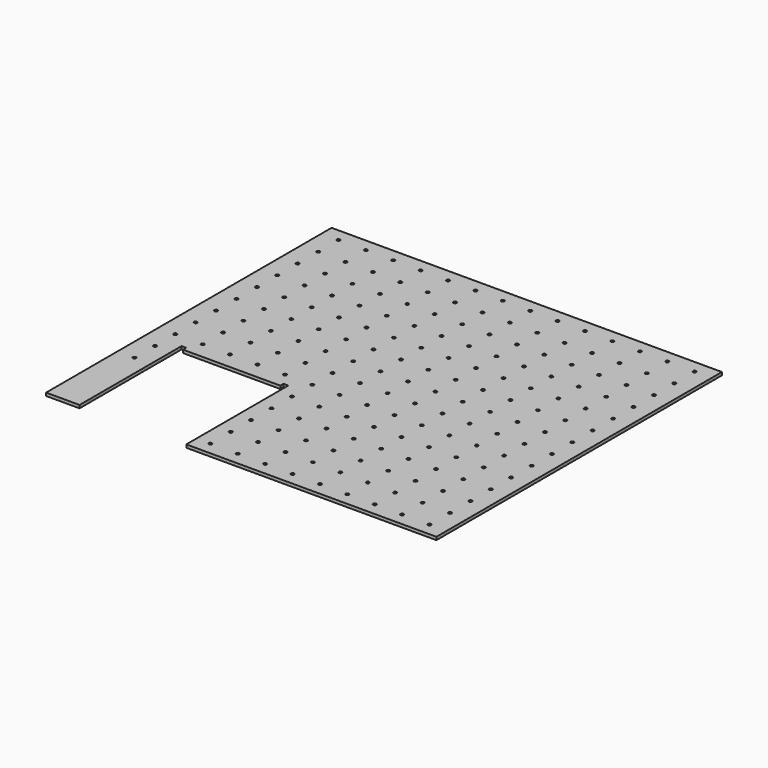
from build123d import *

# Parameters (mm, degrees)
SKETCH_R      = 3.175
EXTRUDE_DEPTH = 5.9944


with BuildPart() as part:
    # Sketch → Extrude (new body)
    with BuildSketch(Plane.XY):
        Polygon((0, 0), (777.875, 0), (777.875, -711.2), (279.4, -711.2), (279.4, -457.2), (269.875, -457.2), (269.875, -465.1248), (76.2, -465.1248), (76.2, -457.2), (66.675, -457.2), (66.675, -711.2), (0, -711.2), align=None)
        with Locations((33.9852, -25.4)):
            Circle(SKETCH_R, mode=Mode.SUBTRACT)
        with Locations((88.5952, -25.4)):
            Circle(SKETCH_R, mode=Mode.SUBTRACT)
        with Locations((143.2052, -25.4)):
            Circle(SKETCH_R, mode=Mode.SUBTRACT)
        with Locations((197.8152, -25.4)):
            Circle(SKETCH_R, mode=Mode.SUBTRACT)
        with Locations((252.4252, -25.4)):
            Circle(SKETCH_R, mode=Mode.SUBTRACT)
        with Locations((307.0352, -25.4)):
            Circle(SKETCH_R, mode=Mode.SUBTRACT)
        with Locations((361.6452, -25.4)):
            Circle(SKETCH_R, mode=Mode.SUBTRACT)
        with Locations((416.2552, -25.4)):
            Circle(SKETCH_R, mode=Mode.SUBTRACT)
        with Locations((470.8652, -25.4)):
            Circle(SKETCH_R, mode=Mode.SUBTRACT)
        with Locations((525.4752, -25.4)):
            Circle(SKETCH_R, mode=Mode.SUBTRACT)
        with Locations((580.0852, -25.4)):
            Circle(SKETCH_R, mode=Mode.SUBTRACT)
        with Locations((634.6952, -25.4)):
            Circle(SKETCH_R, mode=Mode.SUBTRACT)
        with Locations((689.3052, -25.4)):
            Circle(SKETCH_R, mode=Mode.SUBTRACT)
        with Locations((743.9152, -25.4)):
            Circle(SKETCH_R, mode=Mode.SUBTRACT)
        with Locations((33.9852, -76.2)):
            Circle(SKETCH_R, mode=Mode.SUBTRACT)
        with Locations((88.5952, -76.2)):
            Circle(SKETCH_R, mode=Mode.SUBTRACT)
        with Locations((143.2052, -76.2)):
            Circle(SKETCH_R, mode=Mode.SUBTRACT)
        with Locations((197.8152, -76.2)):
            Circle(SKETCH_R, mode=Mode.SUBTRACT)
        with Locations((252.4252, -76.2)):
            Circle(SKETCH_R, mode=Mode.SUBTRACT)
        with Locations((307.0352, -76.2)):
            Circle(SKETCH_R, mode=Mode.SUBTRACT)
        with Locations((361.6452, -76.2)):
            Circle(SKETCH_R, mode=Mode.SUBTRACT)
        with Locations((416.2552, -76.2)):
            Circle(SKETCH_R, mode=Mode.SUBTRACT)
        with Locations((470.8652, -76.2)):
            Circle(SKETCH_R, mode=Mode.SUBTRACT)
        with Locations((525.4752, -76.2)):
            Circle(SKETCH_R, mode=Mode.SUBTRACT)
        with Locations((580.0852, -76.2)):
            Circle(SKETCH_R, mode=Mode.SUBTRACT)
        with Locations((634.6952, -76.2)):
            Circle(SKETCH_R, mode=Mode.SUBTRACT)
        with Locations((689.3052, -76.2)):
            Circle(SKETCH_R, mode=Mode.SUBTRACT)
        with Locations((743.9152, -76.2)):
            Circle(SKETCH_R, mode=Mode.SUBTRACT)
        with Locations((33.9852, -127)):
            Circle(SKETCH_R, mode=Mode.SUBTRACT)
        with Locations((88.5952, -127)):
            Circle(SKETCH_R, mode=Mode.SUBTRACT)
        with Locations((143.2052, -127)):
            Circle(SKETCH_R, mode=Mode.SUBTRACT)
        with Locations((197.8152, -127)):
            Circle(SKETCH_R, mode=Mode.SUBTRACT)
        with Locations((252.4252, -127)):
            Circle(SKETCH_R, mode=Mode.SUBTRACT)
        with Locations((307.0352, -127)):
            Circle(SKETCH_R, mode=Mode.SUBTRACT)
        with Locations((361.6452, -127)):
            Circle(SKETCH_R, mode=Mode.SUBTRACT)
        with Locations((416.2552, -127)):
            Circle(SKETCH_R, mode=Mode.SUBTRACT)
        with Locations((470.8652, -127)):
            Circle(SKETCH_R, mode=Mode.SUBTRACT)
        with Locations((525.4752, -127)):
            Circle(SKETCH_R, mode=Mode.SUBTRACT)
        with Locations((580.0852, -127)):
            Circle(SKETCH_R, mode=Mode.SUBTRACT)
        with Locations((634.6952, -127)):
            Circle(SKETCH_R, mode=Mode.SUBTRACT)
        with Locations((689.3052, -127)):
            Circle(SKETCH_R, mode=Mode.SUBTRACT)
        with Locations((743.9152, -127)):
            Circle(SKETCH_R, mode=Mode.SUBTRACT)
        with Locations((33.9852, -177.8)):
            Circle(SKETCH_R, mode=Mode.SUBTRACT)
        with Locations((88.5952, -177.8)):
            Circle(SKETCH_R, mode=Mode.SUBTRACT)
        with Locations((143.2052, -177.8)):
            Circle(SKETCH_R, mode=Mode.SUBTRACT)
        with Locations((197.8152, -177.8)):
            Circle(SKETCH_R, mode=Mode.SUBTRACT)
        with Locations((252.4252, -177.8)):
            Circle(SKETCH_R, mode=Mode.SUBTRACT)
        with Locations((307.0352, -177.8)):
            Circle(SKETCH_R, mode=Mode.SUBTRACT)
        with Locations((361.6452, -177.8)):
            Circle(SKETCH_R, mode=Mode.SUBTRACT)
        with Locations((416.2552, -177.8)):
            Circle(SKETCH_R, mode=Mode.SUBTRACT)
        with Locations((470.8652, -177.8)):
            Circle(SKETCH_R, mode=Mode.SUBTRACT)
        with Locations((525.4752, -177.8)):
            Circle(SKETCH_R, mode=Mode.SUBTRACT)
        with Locations((580.0852, -177.8)):
            Circle(SKETCH_R, mode=Mode.SUBTRACT)
        with Locations((634.6952, -177.8)):
            Circle(SKETCH_R, mode=Mode.SUBTRACT)
        with Locations((689.3052, -177.8)):
            Circle(SKETCH_R, mode=Mode.SUBTRACT)
        with Locations((743.9152, -177.8)):
            Circle(SKETCH_R, mode=Mode.SUBTRACT)
        with Locations((33.9852, -228.6)):
            Circle(SKETCH_R, mode=Mode.SUBTRACT)
        with Locations((88.5952, -228.6)):
            Circle(SKETCH_R, mode=Mode.SUBTRACT)
        with Locations((143.2052, -228.6)):
            Circle(SKETCH_R, mode=Mode.SUBTRACT)
        with Locations((197.8152, -228.6)):
            Circle(SKETCH_R, mode=Mode.SUBTRACT)
        with Locations((252.4252, -228.6)):
            Circle(SKETCH_R, mode=Mode.SUBTRACT)
        with Locations((307.0352, -228.6)):
            Circle(SKETCH_R, mode=Mode.SUBTRACT)
        with Locations((361.6452, -228.6)):
            Circle(SKETCH_R, mode=Mode.SUBTRACT)
        with Locations((416.2552, -228.6)):
            Circle(SKETCH_R, mode=Mode.SUBTRACT)
        with Locations((470.8652, -228.6)):
            Circle(SKETCH_R, mode=Mode.SUBTRACT)
        with Locations((525.4752, -228.6)):
            Circle(SKETCH_R, mode=Mode.SUBTRACT)
        with Locations((580.0852, -228.6)):
            Circle(SKETCH_R, mode=Mode.SUBTRACT)
        with Locations((634.6952, -228.6)):
            Circle(SKETCH_R, mode=Mode.SUBTRACT)
        with Locations((689.3052, -228.6)):
            Circle(SKETCH_R, mode=Mode.SUBTRACT)
        with Locations((743.9152, -228.6)):
            Circle(SKETCH_R, mode=Mode.SUBTRACT)
        with Locations((33.9852, -279.4)):
            Circle(SKETCH_R, mode=Mode.SUBTRACT)
        with Locations((88.5952, -279.4)):
            Circle(SKETCH_R, mode=Mode.SUBTRACT)
        with Locations((143.2052, -279.4)):
            Circle(SKETCH_R, mode=Mode.SUBTRACT)
        with Locations((197.8152, -279.4)):
            Circle(SKETCH_R, mode=Mode.SUBTRACT)
        with Locations((252.4252, -279.4)):
            Circle(SKETCH_R, mode=Mode.SUBTRACT)
        with Locations((307.0352, -279.4)):
            Circle(SKETCH_R, mode=Mode.SUBTRACT)
        with Locations((361.6452, -279.4)):
            Circle(SKETCH_R, mode=Mode.SUBTRACT)
        with Locations((416.2552, -279.4)):
            Circle(SKETCH_R, mode=Mode.SUBTRACT)
        with Locations((470.8652, -279.4)):
            Circle(SKETCH_R, mode=Mode.SUBTRACT)
        with Locations((525.4752, -279.4)):
            Circle(SKETCH_R, mode=Mode.SUBTRACT)
        with Locations((580.0852, -279.4)):
            Circle(SKETCH_R, mode=Mode.SUBTRACT)
        with Locations((634.6952, -279.4)):
            Circle(SKETCH_R, mode=Mode.SUBTRACT)
        with Locations((689.3052, -279.4)):
            Circle(SKETCH_R, mode=Mode.SUBTRACT)
        with Locations((743.9152, -279.4)):
            Circle(SKETCH_R, mode=Mode.SUBTRACT)
        with Locations((33.9852, -330.2)):
            Circle(SKETCH_R, mode=Mode.SUBTRACT)
        with Locations((88.5952, -330.2)):
            Circle(SKETCH_R, mode=Mode.SUBTRACT)
        with Locations((143.2052, -330.2)):
            Circle(SKETCH_R, mode=Mode.SUBTRACT)
        with Locations((197.8152, -330.2)):
            Circle(SKETCH_R, mode=Mode.SUBTRACT)
        with Locations((252.4252, -330.2)):
            Circle(SKETCH_R, mode=Mode.SUBTRACT)
        with Locations((307.0352, -330.2)):
            Circle(SKETCH_R, mode=Mode.SUBTRACT)
        with Locations((361.6452, -330.2)):
            Circle(SKETCH_R, mode=Mode.SUBTRACT)
        with Locations((416.2552, -330.2)):
            Circle(SKETCH_R, mode=Mode.SUBTRACT)
        with Locations((470.8652, -330.2)):
            Circle(SKETCH_R, mode=Mode.SUBTRACT)
        with Locations((525.4752, -330.2)):
            Circle(SKETCH_R, mode=Mode.SUBTRACT)
        with Locations((580.0852, -330.2)):
            Circle(SKETCH_R, mode=Mode.SUBTRACT)
        with Locations((634.6952, -330.2)):
            Circle(SKETCH_R, mode=Mode.SUBTRACT)
        with Locations((689.3052, -330.2)):
            Circle(SKETCH_R, mode=Mode.SUBTRACT)
        with Locations((743.9152, -330.2)):
            Circle(SKETCH_R, mode=Mode.SUBTRACT)
        with Locations((33.9852, -381)):
            Circle(SKETCH_R, mode=Mode.SUBTRACT)
        with Locations((88.5952, -381)):
            Circle(SKETCH_R, mode=Mode.SUBTRACT)
        with Locations((143.2052, -381)):
            Circle(SKETCH_R, mode=Mode.SUBTRACT)
        with Locations((197.8152, -381)):
            Circle(SKETCH_R, mode=Mode.SUBTRACT)
        with Locations((252.4252, -381)):
            Circle(SKETCH_R, mode=Mode.SUBTRACT)
        with Locations((307.0352, -381)):
            Circle(SKETCH_R, mode=Mode.SUBTRACT)
        with Locations((361.6452, -381)):
            Circle(SKETCH_R, mode=Mode.SUBTRACT)
        with Locations((416.2552, -381)):
            Circle(SKETCH_R, mode=Mode.SUBTRACT)
        with Locations((470.8652, -381)):
            Circle(SKETCH_R, mode=Mode.SUBTRACT)
        with Locations((525.4752, -381)):
            Circle(SKETCH_R, mode=Mode.SUBTRACT)
        with Locations((580.0852, -381)):
            Circle(SKETCH_R, mode=Mode.SUBTRACT)
        with Locations((634.6952, -381)):
            Circle(SKETCH_R, mode=Mode.SUBTRACT)
        with Locations((689.3052, -381)):
            Circle(SKETCH_R, mode=Mode.SUBTRACT)
        with Locations((743.9152, -381)):
            Circle(SKETCH_R, mode=Mode.SUBTRACT)
        with Locations((33.9852, -431.8)):
            Circle(SKETCH_R, mode=Mode.SUBTRACT)
        with Locations((88.5952, -431.8)):
            Circle(SKETCH_R, mode=Mode.SUBTRACT)
        with Locations((143.2052, -431.8)):
            Circle(SKETCH_R, mode=Mode.SUBTRACT)
        with Locations((197.8152, -431.8)):
            Circle(SKETCH_R, mode=Mode.SUBTRACT)
        with Locations((252.4252, -431.8)):
            Circle(SKETCH_R, mode=Mode.SUBTRACT)
        with Locations((307.0352, -431.8)):
            Circle(SKETCH_R, mode=Mode.SUBTRACT)
        with Locations((361.6452, -431.8)):
            Circle(SKETCH_R, mode=Mode.SUBTRACT)
        with Locations((416.2552, -431.8)):
            Circle(SKETCH_R, mode=Mode.SUBTRACT)
        with Locations((470.8652, -431.8)):
            Circle(SKETCH_R, mode=Mode.SUBTRACT)
        with Locations((525.4752, -431.8)):
            Circle(SKETCH_R, mode=Mode.SUBTRACT)
        with Locations((580.0852, -431.8)):
            Circle(SKETCH_R, mode=Mode.SUBTRACT)
        with Locations((634.6952, -431.8)):
            Circle(SKETCH_R, mode=Mode.SUBTRACT)
        with Locations((689.3052, -431.8)):
            Circle(SKETCH_R, mode=Mode.SUBTRACT)
        with Locations((743.9152, -431.8)):
            Circle(SKETCH_R, mode=Mode.SUBTRACT)
        with Locations((33.9852, -482.6)):
            Circle(SKETCH_R, mode=Mode.SUBTRACT)
        with Locations((307.0352, -482.6)):
            Circle(SKETCH_R, mode=Mode.SUBTRACT)
        with Locations((361.6452, -482.6)):
            Circle(SKETCH_R, mode=Mode.SUBTRACT)
        with Locations((416.2552, -482.6)):
            Circle(SKETCH_R, mode=Mode.SUBTRACT)
        with Locations((470.8652, -482.6)):
            Circle(SKETCH_R, mode=Mode.SUBTRACT)
        with Locations((525.4752, -482.6)):
            Circle(SKETCH_R, mode=Mode.SUBTRACT)
        with Locations((580.0852, -482.6)):
            Circle(SKETCH_R, mode=Mode.SUBTRACT)
        with Locations((634.6952, -482.6)):
            Circle(SKETCH_R, mode=Mode.SUBTRACT)
        with Locations((689.3052, -482.6)):
            Circle(SKETCH_R, mode=Mode.SUBTRACT)
        with Locations((743.9152, -482.6)):
            Circle(SKETCH_R, mode=Mode.SUBTRACT)
        with Locations((33.9852, -533.4)):
            Circle(SKETCH_R, mode=Mode.SUBTRACT)
        with Locations((307.0352, -533.4)):
            Circle(SKETCH_R, mode=Mode.SUBTRACT)
        with Locations((361.6452, -533.4)):
            Circle(SKETCH_R, mode=Mode.SUBTRACT)
        with Locations((416.2552, -533.4)):
            Circle(SKETCH_R, mode=Mode.SUBTRACT)
        with Locations((470.8652, -533.4)):
            Circle(SKETCH_R, mode=Mode.SUBTRACT)
        with Locations((525.4752, -533.4)):
            Circle(SKETCH_R, mode=Mode.SUBTRACT)
        with Locations((580.0852, -533.4)):
            Circle(SKETCH_R, mode=Mode.SUBTRACT)
        with Locations((634.6952, -533.4)):
            Circle(SKETCH_R, mode=Mode.SUBTRACT)
        with Locations((689.3052, -533.4)):
            Circle(SKETCH_R, mode=Mode.SUBTRACT)
        with Locations((743.9152, -533.4)):
            Circle(SKETCH_R, mode=Mode.SUBTRACT)
        with Locations((307.0352, -584.2)):
            Circle(SKETCH_R, mode=Mode.SUBTRACT)
        with Locations((361.6452, -584.2)):
            Circle(SKETCH_R, mode=Mode.SUBTRACT)
        with Locations((416.2552, -584.2)):
            Circle(SKETCH_R, mode=Mode.SUBTRACT)
        with Locations((470.8652, -584.2)):
            Circle(SKETCH_R, mode=Mode.SUBTRACT)
        with Locations((525.4752, -584.2)):
            Circle(SKETCH_R, mode=Mode.SUBTRACT)
        with Locations((580.0852, -584.2)):
            Circle(SKETCH_R, mode=Mode.SUBTRACT)
        with Locations((634.6952, -584.2)):
            Circle(SKETCH_R, mode=Mode.SUBTRACT)
        with Locations((689.3052, -584.2)):
            Circle(SKETCH_R, mode=Mode.SUBTRACT)
        with Locations((743.9152, -584.2)):
            Circle(SKETCH_R, mode=Mode.SUBTRACT)
        with Locations((307.0352, -635)):
            Circle(SKETCH_R, mode=Mode.SUBTRACT)
        with Locations((361.6452, -635)):
            Circle(SKETCH_R, mode=Mode.SUBTRACT)
        with Locations((416.2552, -635)):
            Circle(SKETCH_R, mode=Mode.SUBTRACT)
        with Locations((470.8652, -635)):
            Circle(SKETCH_R, mode=Mode.SUBTRACT)
        with Locations((525.4752, -635)):
            Circle(SKETCH_R, mode=Mode.SUBTRACT)
        with Locations((580.0852, -635)):
            Circle(SKETCH_R, mode=Mode.SUBTRACT)
        with Locations((634.6952, -635)):
            Circle(SKETCH_R, mode=Mode.SUBTRACT)
        with Locations((689.3052, -635)):
            Circle(SKETCH_R, mode=Mode.SUBTRACT)
        with Locations((743.9152, -635)):
            Circle(SKETCH_R, mode=Mode.SUBTRACT)
        with Locations((307.0352, -685.8)):
            Circle(SKETCH_R, mode=Mode.SUBTRACT)
        with Locations((361.6452, -685.8)):
            Circle(SKETCH_R, mode=Mode.SUBTRACT)
        with Locations((416.2552, -685.8)):
            Circle(SKETCH_R, mode=Mode.SUBTRACT)
        with Locations((470.8652, -685.8)):
            Circle(SKETCH_R, mode=Mode.SUBTRACT)
        with Locations((525.4752, -685.8)):
            Circle(SKETCH_R, mode=Mode.SUBTRACT)
        with Locations((580.0852, -685.8)):
            Circle(SKETCH_R, mode=Mode.SUBTRACT)
        with Locations((634.6952, -685.8)):
            Circle(SKETCH_R, mode=Mode.SUBTRACT)
        with Locations((689.3052, -685.8)):
            Circle(SKETCH_R, mode=Mode.SUBTRACT)
        with Locations((743.9152, -685.8)):
            Circle(SKETCH_R, mode=Mode.SUBTRACT)
    extrude(amount=EXTRUDE_DEPTH)


solid = part.part
